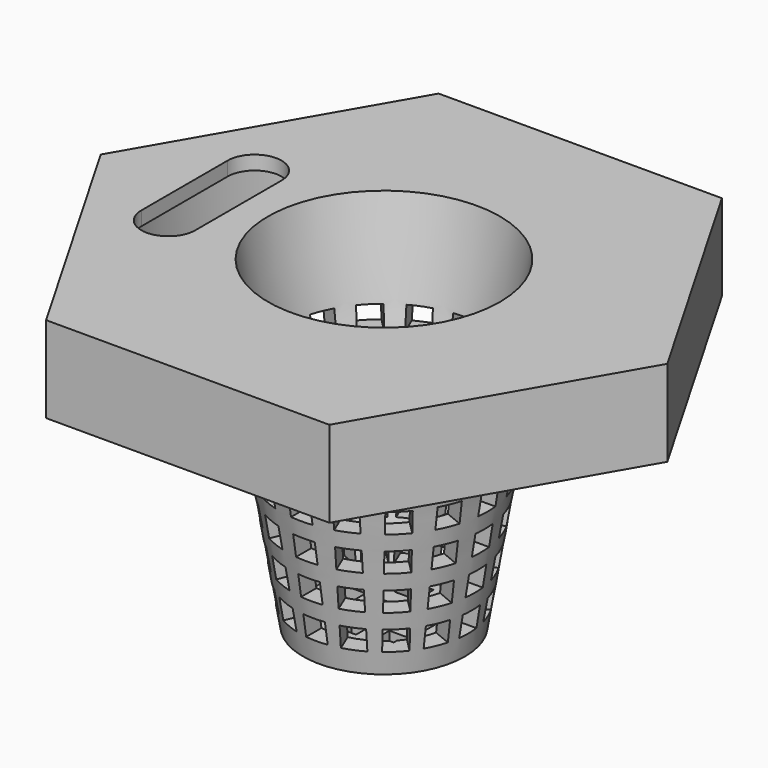
from build123d import *

# Parameters (mm, degrees)
BOX005_W         = 4
BOX005_H         = 4
BOX005_DEPTH     = 60
ARRAY005_X_COUNT = 3
ARRAY005_X_PITCH = 7
ARRAY005_Y_COUNT = 3
ARRAY005_Y_PITCH = 7
BOX004_W         = 50
BOX004_H         = 4
BOX004_DEPTH     = 4
ARRAY003_Z_COUNT = 6
ARRAY003_Z_PITCH = 7
ARRAY004_COUNT   = 16
EXTRUDE006_DEPTH = 16
EXTRUDE001_DEPTH = 1.5
EXTRUDE003_DEPTH = 1.5
EXTRUDE_DEPTH    = 1.5
EXTRUDE002_DEPTH = 1.5
SKETCH001_R      = 40.5
EXTRUDE005_DEPTH = 13.4
EXTRUDE004_DEPTH = 16


with BuildPart() as cage_box_bottom_array:
    # Box005 → Box005 (new body)
    with BuildSketch(Plane(origin=(-9, -9, -60), x_dir=(1, 0, 0), z_dir=(0, 0, 1))):
        with Locations((2, 2)):
            Rectangle(BOX005_W, BOX005_H)
    extrude(amount=BOX005_DEPTH)

    # Array005 X: cage_box_bottom_array ×3


with BuildPart() as cage_box_bottom_array_1:
    add(cage_box_bottom_array.part)
    with Locations(*[(i * ARRAY005_X_PITCH, 0, 0) for i in range(1, ARRAY005_X_COUNT)]):
        add(cage_box_bottom_array.part)

    # Array005 Y: cage_box_bottom_array ×3


with BuildPart() as cage_box_bottom_array_2:
    add(cage_box_bottom_array_1.part)
    with Locations(*[(0, i * ARRAY005_Y_PITCH, 0) for i in range(1, ARRAY005_Y_COUNT)]):
        add(cage_box_bottom_array_1.part)


with BuildPart() as cage_box_polar_array:
    # Box004 → Box004 (new body)
    with BuildSketch(Plane(origin=(-25, -2, -40), x_dir=(1, 0, 0), z_dir=(0, 0, 1))):
        with Locations((25, 2)):
            Rectangle(BOX004_W, BOX004_H)
    extrude(amount=BOX004_DEPTH)

    # Array003 Z: cage_box_polar_array ×6


with BuildPart() as cage_box_polar_array_1:
    add(cage_box_polar_array.part)
    with Locations(*[(0, 0, i * ARRAY003_Z_PITCH) for i in range(1, ARRAY003_Z_COUNT)]):
        add(cage_box_polar_array.part)

    # Array004: cage_box_polar_array ×16 about axis
    array004_axis = Axis((0, 0, 0), (0, 0, 1))


with BuildPart() as cage_box_polar_array_2:
    add(cage_box_polar_array_1.part)
    for i in range(1, ARRAY004_COUNT):
        add(cage_box_polar_array_1.part.rotate(array004_axis, i * 360 / ARRAY004_COUNT))


with BuildPart() as water_hole_extrude:
    # Sketch005 → Extrude006 (new body)
    with BuildSketch(Plane.XY):
        with BuildLine():
            ThreePointArc((-37, -10), (-32, -15), (-27, -10))
            Line((-27, -10), (-27, 10))
            ThreePointArc((-27, 10), (-32, 15), (-37, 10))
            Line((-37, -10), (-37, 10))
        make_face()
    extrude(amount=EXTRUDE006_DEPTH)


with BuildPart() as cage_inner:
    # Cone001 → Cone001 (revolve)
    with BuildSketch(Plane(origin=(0, 0, -41), x_dir=(1, 0, 0), z_dir=(0, -1, 0))):
        Polygon((0, 0), (12, 0), (22, 60), (0, 60), align=None)
    revolve(axis=Axis((0, 0, -41), (0, 0, 1)))


with BuildPart() as teeth_extrude1:
    # MirroredSketch → Extrude001 (new body)
    with BuildSketch(Plane.XY):
        with BuildLine():
            Line((10.920165, -39), (-10.920165, -39))
            ThreePointArc((-10.920165, -39), (0, -40.5), (10.920165, -39))
        make_face()
    extrude(amount=EXTRUDE001_DEPTH)


with BuildPart() as teeth_extrude3:
    # MirroredSketch002 → Extrude003 (new body)
    with BuildSketch(Plane.XY):
        with BuildLine():
            Line((-10.920165, 39), (10.920165, 39))
            ThreePointArc((10.920165, 39), (0, 40.5), (-10.920165, 39))
        make_face()
    extrude(amount=EXTRUDE003_DEPTH)


with BuildPart() as teeth_extrude0:
    # Sketch003 → Extrude (new body)
    with BuildSketch(Plane.XY):
        with BuildLine():
            Line((-39, 10.920165), (-39, -10.920165))
            ThreePointArc((-39, 10.920165), (-40.5, 0), (-39, -10.920165))
        make_face()
    extrude(amount=EXTRUDE_DEPTH)


with BuildPart() as teeth_compound:
    # MirroredSketch001 → Extrude002 (new body)
    with BuildSketch(Plane.XY):
        with BuildLine():
            Line((39, -10.920165), (39, 10.920165))
            ThreePointArc((39, -10.920165), (40.5, 0), (39, 10.920165))
        make_face()
    extrude(amount=EXTRUDE002_DEPTH)

    # Compound001: union teeth_extrude1, teeth_extrude3, teeth_extrude0
    add(teeth_extrude1.part)
    add(teeth_extrude3.part)
    add(teeth_extrude0.part)


with BuildPart() as lid_extrude:
    # Sketch001 (on Sketch) → Extrude005 (new body)
    with BuildSketch(Plane.XY):
        Circle(SKETCH001_R)
    extrude(amount=EXTRUDE005_DEPTH)


with BuildPart() as lid_teeth_fuse:
    # Sketch → Extrude004 (new body)
    with BuildSketch(Plane.XY):
        Polygon((52.540416, 0), (26.270208, 45.501335), (-26.270208, 45.501335), (-52.540416, 0), (-26.270208, -45.501335), (26.270208, -45.501335), align=None)
    extrude(amount=EXTRUDE004_DEPTH)

    # Cut: cut lid_extrude
    add(lid_extrude.part, mode=Mode.SUBTRACT)

    # Fusion: union teeth_compound
    add(teeth_compound.part)


with BuildPart() as cage_holes_bottom_cut:
    # Cone → Cone (revolve)
    with BuildSketch(Plane(origin=(0, 0, -44), x_dir=(1, 0, 0), z_dir=(0, -1, 0))):
        Polygon((0, 0), (15, 0), (25, 60), (0, 60), align=None)
    revolve(axis=Axis((0, 0, -44), (0, 0, 1)))

    # Fusion001: union lid_teeth_fuse
    add(lid_teeth_fuse.part)

    # Cut001: cut cage_inner
    add(cage_inner.part, mode=Mode.SUBTRACT)

    # Cut002: cut water_hole_extrude
    add(water_hole_extrude.part, mode=Mode.SUBTRACT)

    # Cut003: cut cage_box_polar_array
    add(cage_box_polar_array_2.part, mode=Mode.SUBTRACT)

    # Cut004: cut cage_box_bottom_array
    add(cage_box_bottom_array_2.part, mode=Mode.SUBTRACT)


solid = cage_holes_bottom_cut.part
